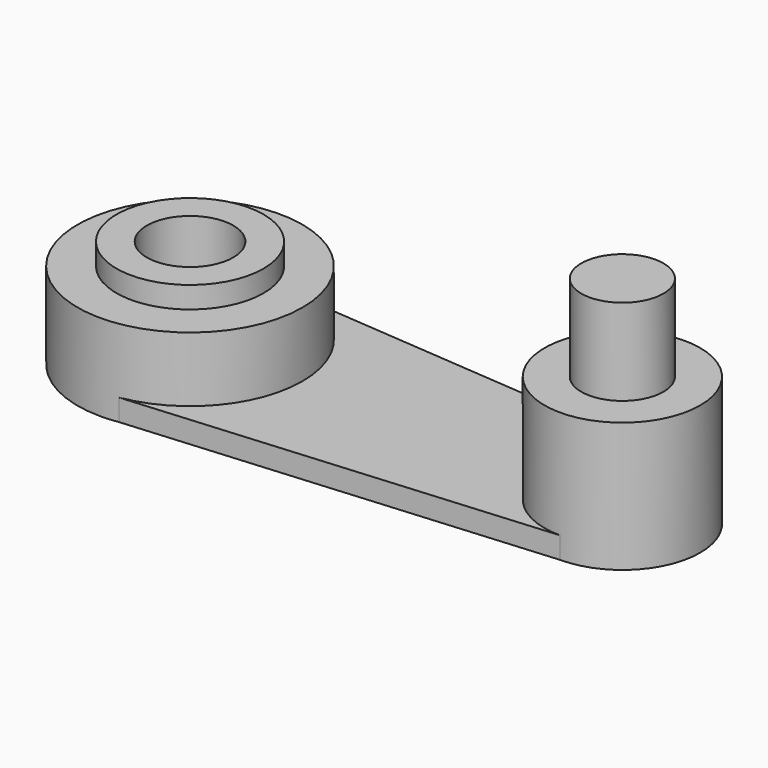
from build123d import *

# Parameters (mm, degrees)
F0_R      = 26
F3_DEPTH  = 20
F4_DEPTH  = 5
F2_R      = 18
F5_DEPTH  = 30
F6_R      = 17
F8_DEPTH  = 5
F7_R      = 9.5
F9_DEPTH  = 20
F10_R     = 10
F11_DEPTH = 25


with BuildPart() as f3:
    # F0 (on Top) → F3 (new body)
    with BuildSketch(Plane.XY):
        Circle(F0_R)
    extrude(amount=F3_DEPTH)

    # F1 (on Top) → F4 (join)
    with BuildSketch(Plane.XY):
        Polygon((100, 18), (0, 26), (0, -26), (100, -18), align=None)
    extrude(amount=F4_DEPTH)

    # F2 (on Top) → F5 (join)
    with BuildSketch(Plane.XY):
        with Locations((100, 0)):
            Circle(F2_R)
    extrude(amount=F5_DEPTH)

    # F6 (on face) → F8 (join)
    with BuildSketch(Plane.XY.offset(20)):
        Circle(F6_R)
    extrude(amount=F8_DEPTH)

    # F7 (on face) → F9 (join)
    with BuildSketch(Plane.XY.offset(30)):
        with Locations((100, 0)):
            Circle(F7_R)
    extrude(amount=F9_DEPTH)

    # F10 (on face) → F11 (cut, through all)
    with BuildSketch(Plane.XY.offset(25)):
        Circle(F10_R)
    extrude(amount=-F11_DEPTH, mode=Mode.SUBTRACT)


solid = f3.part
